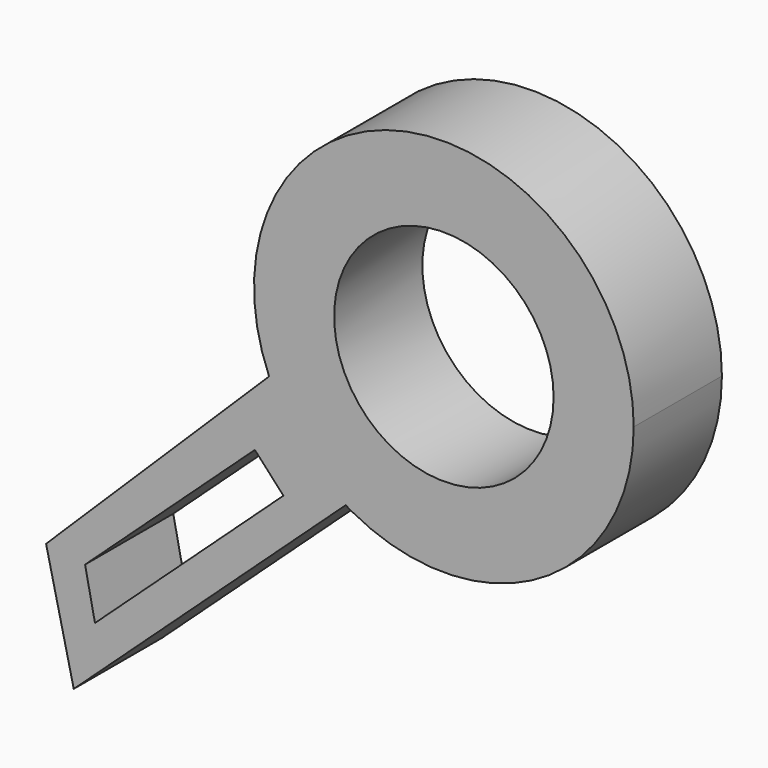
from build123d import *

# Parameters (mm, degrees)
F0_R     = 9.101215
F1_DEPTH = 9.144
F3_DEPTH = 9.144


with BuildPart() as f1:
    # F0 (on Front) → F1 (new body)
    with BuildSketch(Plane.XZ):
        with BuildLine():
            ThreePointArc((25.399127, 23.535915), (41.002502, 23.776134), (48.735663, 37.330514))
            ThreePointArc((48.735663, 37.330514), (29.262599, 52.62826), (19.009971, 30.087078))
            ThreePointArc((19.009971, 30.087078), (21.718128, 26.337104), (25.399127, 23.535915))
        make_face()
        with Locations((32.990291, 37.330514)):
            Circle(F0_R, mode=Mode.SUBTRACT)
    extrude(amount=F1_DEPTH)

    # F2 (on Front) → F3 (join)
    with BuildSketch(Plane.XZ):
        Polygon((26.765933, 25.614712), (20.146403, 32.809857), (0, 12.95126), (2.293709, 3.100278), align=None)
        Polygon((4.055375, 8.483427), (3.233486, 12.482763), (17.315077, 25.437819), (19.684572, 22.86228), align=None, mode=Mode.SUBTRACT)
    extrude(amount=F3_DEPTH)


solid = f1.part
